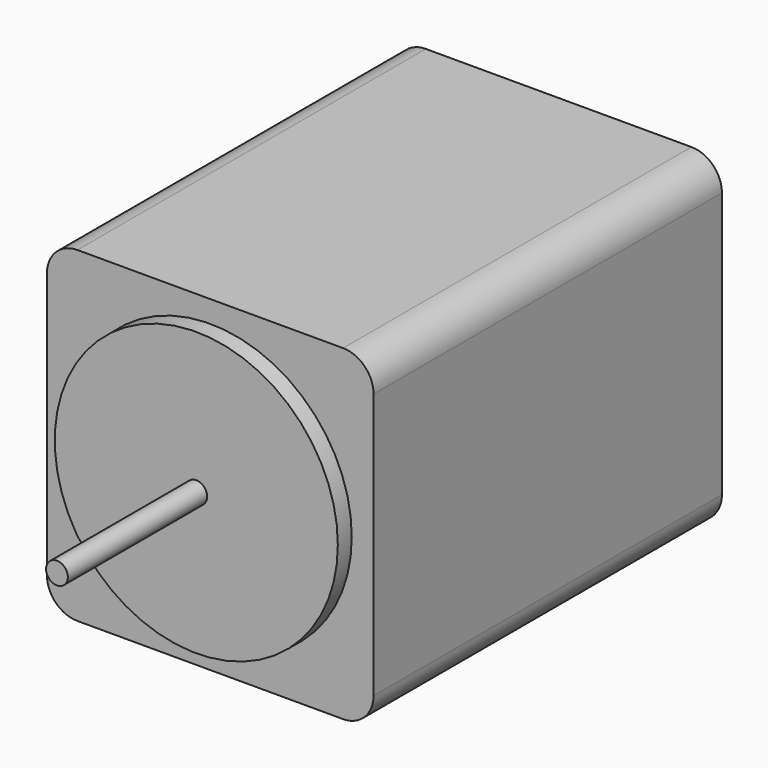
from build123d import *

# Parameters (mm, degrees)
F0_W     = 75
F0_H     = 75
F1_DEPTH = 100
F2_R     = 7
F3_R     = 32.5
F4_DEPTH = 4
F5_R     = 2.5
F6_DEPTH = 40


with BuildPart() as f1:
    # F0 (on Front) → F1 (new body)
    with BuildSketch(Plane.XZ):
        Rectangle(F0_W, F0_H)
    extrude(amount=-F1_DEPTH)

    # F2
    f2_edges = [f1.edges().sort_by_distance(p)[0] for p in [
        (37.5, 50, 37.5),
        (37.5, 50, -37.5),
        (-37.5, 50, -37.5),
        (-37.5, 50, 37.5),
    ]]
    fillet(f2_edges, radius=F2_R)

    # F3 (on face) → F4 (join)
    with BuildSketch(Plane.XZ):
        Circle(F3_R)
    extrude(amount=F4_DEPTH)

    # F5 (on face) → F6 (join)
    with BuildSketch(Plane.XZ.offset(4)):
        Circle(F5_R)
    extrude(amount=F6_DEPTH)


solid = f1.part
